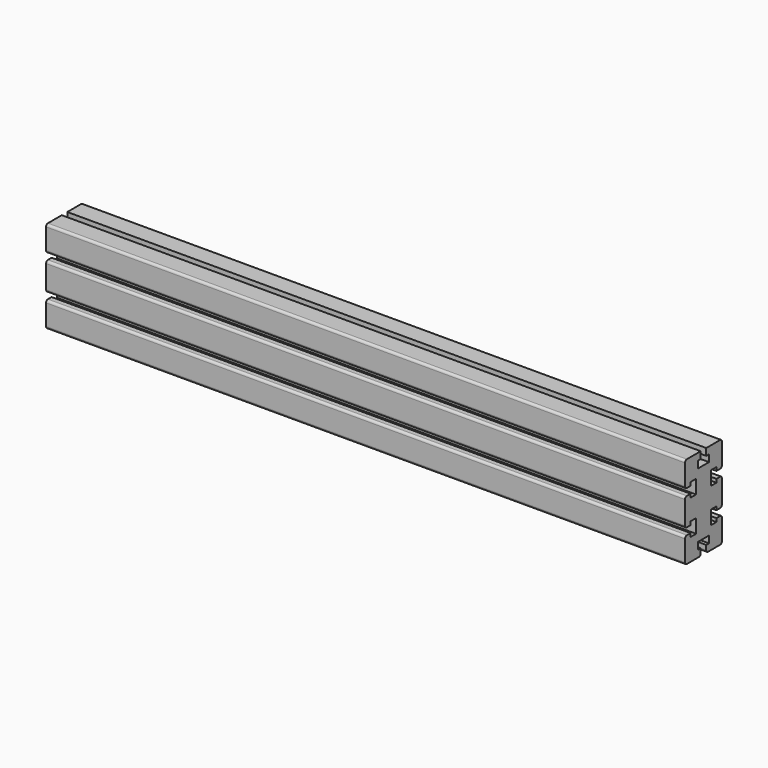
from build123d import *

# Parameters (mm, degrees)
F1_DEPTH = 554
F2_R     = 2


with BuildPart() as f1:
    # F0 (on Right) → F1 (new body)
    with BuildSketch(Plane.YZ):
        Polygon((-3, 40), (-20, 40), (-20, 18), (-14.000001, 18), (-14.000001, 21), (-8.000001, 21), (-8, 9), (-14, 9), (-14, 12), (-20, 12), (-20, -12), (-14, -12), (-14, -9), (-8, -9), (-8, -21), (-14, -21), (-14, -18), (-20, -18), (-20, -40), (-3, -40), (-3.000028, -34), (-6.000028, -34), (-6.000028, -28), (5.999972, -28), (5.999972, -34), (2.999972, -34), (3, -40), (20, -40), (20, -18), (14, -18), (14, -21), (8, -21), (8, -9), (14, -9), (14, -12), (20, -12), (20, 12), (14, 12), (14, 9), (8, 9), (8, 21), (14, 21), (14, 18), (20, 18), (20, 40), (3, 40), (3, 34), (6, 34), (6, 28), (-6, 28), (-6, 34), (-3, 34), align=None)
    extrude(amount=F1_DEPTH)

    # F2
    f2_edges = [f1.edges().sort_by_distance(p)[0] for p in [
        (277, -20, 40),
        (277, -20, 18),
        (277, -20, 12),
        (277, -20, -12),
        (277, -20, -18),
        (277, -20, -40),
        (277, -3, -40),
        (277, 3, -40),
        (277, 20, -40),
        (277, 20, -18),
        (277, 20, 12),
        (277, 20, -12),
        (277, 20, 40),
        (277, 20, 18),
    ]]
    fillet(f2_edges, radius=F2_R)


solid = f1.part
